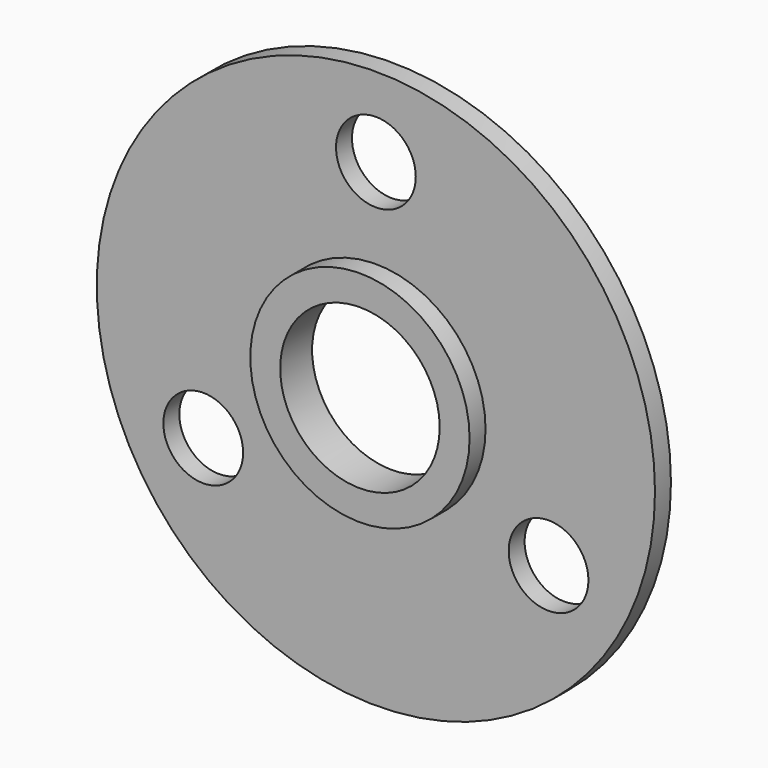
from build123d import *

# Parameters (mm, degrees)
F0_R     = 88.9
F0_R_2   = 12.7
F0_R_3   = 34.925
F1_DEPTH = 6.35
F0_R_4   = 25.4
F2_DEPTH = 12.7


with BuildPart() as f1:
    # F0 (on Front) → F1 (new body)
    with BuildSketch(Plane.XZ):
        Circle(F0_R)
        with Locations((-54.992613, -31.75)):
            Circle(F0_R_2, mode=Mode.SUBTRACT)
        with Locations((54.992613, -31.75)):
            Circle(F0_R_2, mode=Mode.SUBTRACT)
        Circle(F0_R_3, mode=Mode.SUBTRACT)
        with Locations((0, 63.5)):
            Circle(F0_R_2, mode=Mode.SUBTRACT)
    extrude(amount=F1_DEPTH)

    # F0 (on Front) → F2 (join)
    with BuildSketch(Plane.XZ):
        Circle(F0_R_3)
        Circle(F0_R_4, mode=Mode.SUBTRACT)
    extrude(amount=F2_DEPTH)


solid = f1.part
